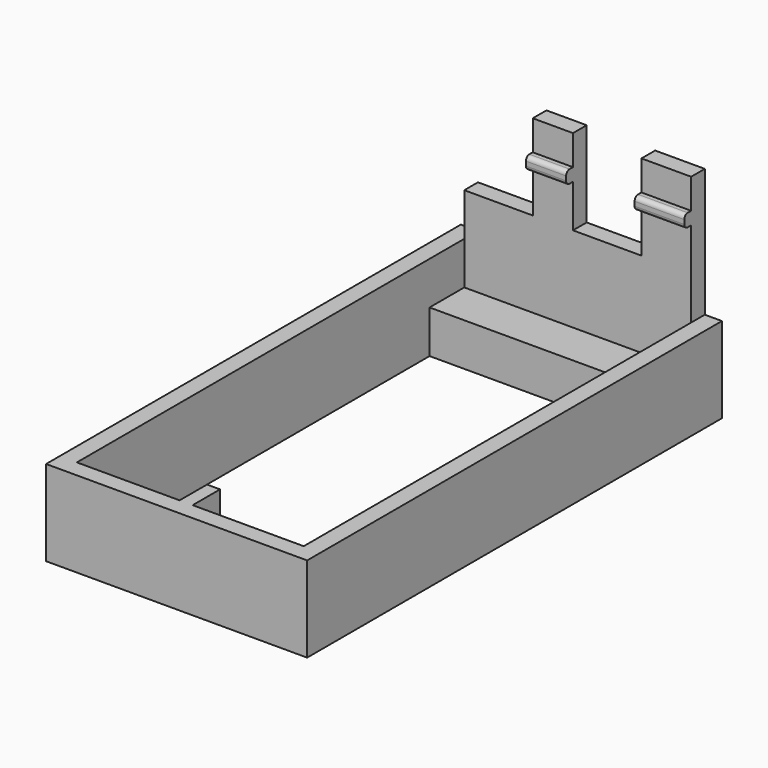
from build123d import *

# Parameters (mm, degrees)
F0_W     = 30.5
F0_H     = 60.57
F0_W_2   = 1.524
F0_H_2   = 4
F1_DEPTH = 10
F0_W_3   = 26.5
F0_H_3   = 5.07
F2_DEPTH = 5
F3_W     = 26.5
F3_H     = 2
F4_DEPTH = 15
F5_W     = 1
F5_H     = 1.5
F6_DEPTH = 25.4
F7_R     = 0.5
F8_W     = 8
F8_H     = 7.14287
F9_DEPTH = 10


with BuildPart() as f1:
    # F0 (on Top) → F1 (new body)
    with BuildSketch(Plane.XY):
        with Locations((0.363031, 4.242457)):
            Rectangle(F0_W, F0_H)
        Polygon((-12.886969, 27.457457), (-12.886969, 32.527457), (13.613031, 32.527457), (13.613031, 27.457457), (13.613031, -24.042543), (0.637031, -24.042543), (-0.886969, -24.042543), (-12.886969, -24.042543), align=None, mode=Mode.SUBTRACT)
        with Locations((-0.124969, -22.042543)):
            Rectangle(F0_W_2, F0_H_2)
    extrude(amount=F1_DEPTH)

    # F0 (on Top) → F2 (join)
    with BuildSketch(Plane.XY):
        with Locations((0.363031, 29.992457)):
            Rectangle(F0_W_3, F0_H_3)
    extrude(amount=F2_DEPTH)

    # F3 (on face) → F4 (join)
    with BuildSketch(Plane.XY.offset(10)):
        with Locations((0.363031, 33.527457)):
            Rectangle(F3_W, F3_H)
    extrude(amount=F4_DEPTH)

    # F5 (on face) → F6 (join)
    with BuildSketch(Plane.YZ.offset(13.613031)):
        with Locations((32.027457, 20.75)):
            Rectangle(F5_W, F5_H)
    extrude(amount=-F6_DEPTH)

    # F7
    f7_edges = [f1.edges().sort_by_distance(p)[0] for p in [
        (0.913031, 31.527457, 21.5),
        (0.913031, 31.527457, 20),
    ]]
    fillet(f7_edges, radius=F7_R)

    # F8 (on face) → F9 (cut)
    with BuildSketch(Plane.XY.offset(25)):
        with Locations((-8.886969, 30.956022)):
            Rectangle(F8_W, F8_H)
        with Locations((3.813031, 30.956022)):
            Rectangle(F8_W, F8_H)
    extrude(amount=-F9_DEPTH, mode=Mode.SUBTRACT)


solid = f1.part
